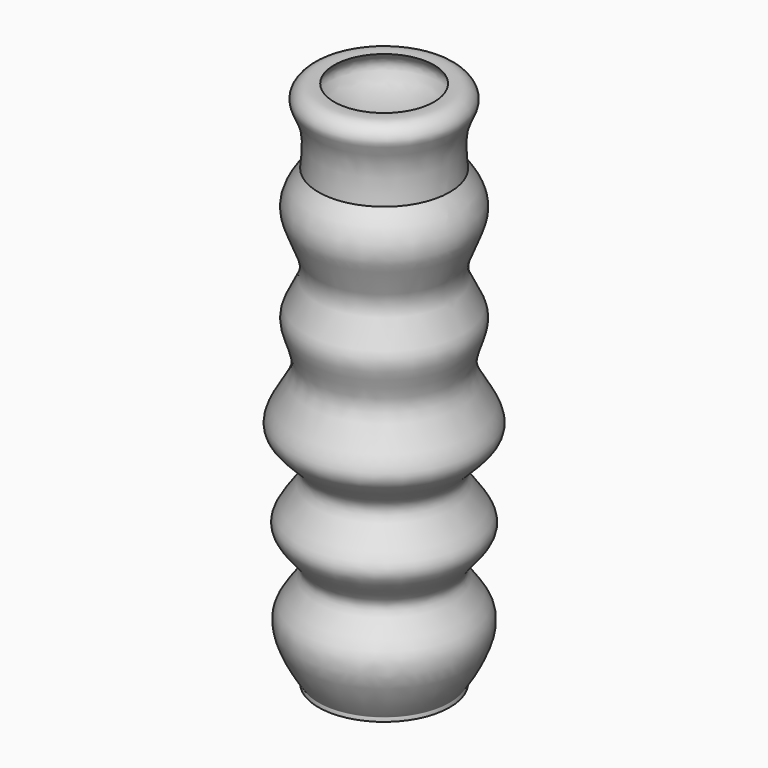
from build123d import *


with BuildPart() as f2:
    # F0 (on Front) → F2 (revolve)
    with BuildSketch(Plane.XZ):
        with BuildLine():
            Line((8.4057952072, -43.0870493969), (12.5166338641, -43.0870493969))
            add(Edge.make_bspline(
                [(12.5166338641, -43.0870493969), (12.5166338641, -42.2543525822), (11.9018954082, -43.1291895285), (20.6889596805, -30.624280487), (8.4746590319, -23.7769882272), (21.1343490171, -16.2164832605), (7.9361862593, -7.0403988111), (22.3031434579, -0.4004810394), (10.6893859474, 9.7832714795), (17.9978705578, 18.7351020256), (9.7626182151, 26.2732573194), (17.6492871916, 36.3732144021), (14.1082837094, 41.2844121589), (12.5166338641, 43.3655495622)],
                knots=[0, 0, 0, 0, 0.0289727905, 0.1353882647, 0.2318791808, 0.3249690493, 0.423793229, 0.5199604004, 0.6238501204, 0.7182023653, 0.8101813969, 0.9123236155, 1, 1, 1, 1], degree=3))
            add(Edge.make_bspline(
                [(12.5166338641, 43.3655495622), (12.404749559, 44.4971742079), (11.578209545, 50.8384590484), (15.0472956091, 54.7685841762), (12.5630743342, 57.8522899628), (10.7396146872, 57.6057663285), (9.5166338641, 57.5313046575)],
                knots=[0, 0, 0, 0, 0.3207186009, 0.5885914571, 0.7901776529, 1, 1, 1, 1], degree=3))
            add(Edge.make_bspline(
                [(9.5166338641, 57.5313046575), (10.2702228673, 56.7634518834), (12.0204316233, 55.0101194921), (8.8872676726, 50.345248515), (8.4499529352, 42.9730321765), (15.0017363658, 36.5316750449), (6.6733444181, 26.2331971463), (15.0210911884, 18.745268912), (7.6832717446, 9.781624153), (19.3010316475, -0.4058547289), (4.9492577765, -7.0192246217), (18.0836792529, -16.2968924592), (5.6545422548, -23.4919231013), (17.1707043329, -31.9378459909), (11.4447563454, -39.1933875943), (8.4057952072, -43.0870493969)],
                knots=[0, 0, 0, 0, 0.0460936858, 0.1053870718, 0.17637781, 0.2503214451, 0.3364651311, 0.4140374898, 0.4936113454, 0.5812288218, 0.6623332405, 0.745678539, 0.8241877002, 0.9055650443, 1, 1, 1, 1], degree=3))
        make_face()
    revolve(axis=Axis((0, 0, 6.962181069), (0, 0, -1)))


solid = f2.part
